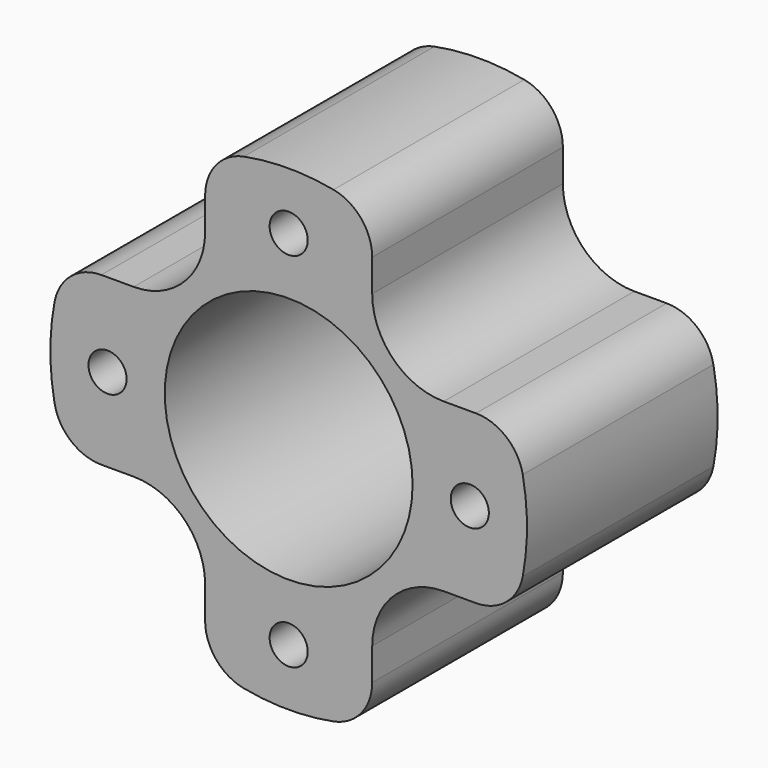
from build123d import *

# Parameters (mm, degrees)
F0_R     = 25
F0_R_2   = 2
F1_DEPTH = 25
F3_DEPTH = 25.001
F4_R     = 5
F5_R     = 13
F6_DEPTH = 25.001


with BuildPart() as f1:
    # F0 (on Front) → F1 (new body)
    with BuildSketch(Plane.XZ):
        Circle(F0_R)
        with Locations((0, -19)):
            Circle(F0_R_2, mode=Mode.SUBTRACT)
        with Locations((-19, 0)):
            Circle(F0_R_2, mode=Mode.SUBTRACT)
        with Locations((19, 0)):
            Circle(F0_R_2, mode=Mode.SUBTRACT)
        with Locations((0, 19)):
            Circle(F0_R_2, mode=Mode.SUBTRACT)
    extrude(amount=F1_DEPTH)

    # F2 (on Front) → F3 (cut, through all)
    with BuildSketch(Plane.XZ):
        with BuildLine():
            Line((-23.7634559673, 8.7634559673), (-16.2634559673, 8.7634559673))
            ThreePointArc((-16.2634559673, 8.7634559673), (-10.9601551084, 10.9601551084), (-8.7634559673, 16.2634559673))
            Line((-8.7634559673, 16.2634559673), (-8.7634559673, 23.7634559673))
            Line((-8.7634559673, 23.7634559673), (-23.7634559673, 23.7634559673))
            Line((-23.7634559673, 23.7634559673), (-23.7634559673, 8.7634559673))
        make_face()
        with BuildLine():
            Line((8.7634559673, 23.7634559673), (8.7634559673, 16.2634559673))
            ThreePointArc((8.7634559673, 16.2634559673), (10.9601551084, 10.9601551084), (16.2634559673, 8.7634559673))
            Line((16.2634559673, 8.7634559673), (23.7634559673, 8.7634559673))
            Line((23.7634559673, 8.7634559673), (23.7634559673, 23.7634559673))
            Line((23.7634559673, 23.7634559673), (8.7634559673, 23.7634559673))
        make_face()
        with BuildLine():
            ThreePointArc((-8.7634559673, -16.2634559673), (-10.9601551084, -10.9601551084), (-16.2634559673, -8.7634559673))
            Line((-16.2634559673, -8.7634559673), (-23.7634559673, -8.7634559673))
            Line((-23.7634559673, -8.7634559673), (-23.7634559673, -23.7634559673))
            Line((-23.7634559673, -23.7634559673), (-8.7634559673, -23.7634559673))
            Line((-8.7634559673, -23.7634559673), (-8.7634559673, -16.2634559673))
        make_face()
        with BuildLine():
            ThreePointArc((16.2634559673, -8.7634559673), (10.9601551084, -10.9601551084), (8.7634559673, -16.2634559673))
            Line((8.7634559673, -16.2634559673), (8.7634559673, -23.7634559673))
            Line((8.7634559673, -23.7634559673), (23.7634559673, -23.7634559673))
            Line((23.7634559673, -23.7634559673), (23.7634559673, -8.7634559673))
            Line((23.7634559673, -8.7634559673), (16.2634559673, -8.7634559673))
        make_face()
    extrude(amount=F3_DEPTH, mode=Mode.SUBTRACT)

    # F4
    f4_edges = [f1.edges().sort_by_distance(p)[0] for p in [
        (8.763456, -12.5, 23.413711),
        (-8.763456, -12.5, 23.413711),
        (-23.413711, -12.5, 8.763456),
        (-23.413711, -12.5, -8.763456),
        (-8.763456, -12.5, -23.413711),
        (8.763456, -12.5, -23.413711),
        (23.413711, -12.5, -8.763456),
        (23.413711, -12.5, 8.763456),
    ]]
    fillet(f4_edges, radius=F4_R)

    # F5 (on Front) → F6 (cut, through all)
    with BuildSketch(Plane.XZ):
        Circle(F5_R)
    extrude(amount=F6_DEPTH, mode=Mode.SUBTRACT)


solid = f1.part
